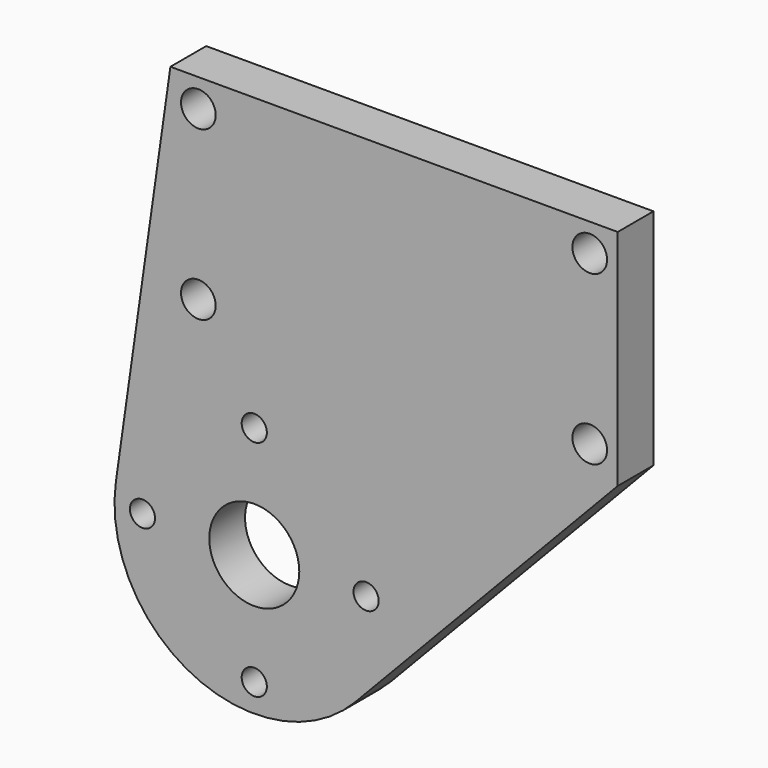
from build123d import *

# Parameters (mm, degrees)
F0_R     = 2.25
F0_R_2   = 8.05
F0_R_3   = 3.1
F1_DEPTH = 8


with BuildPart() as f1:
    # F0 (on Front) → F1 (new body)
    with BuildSketch(Plane.XZ):
        with BuildLine():
            Line((65, 72), (-15, 72))
            Line((-15, 72), (-24.750349, 3.524233))
            ThreePointArc((-24.750349, 3.524233), (-10.901742, -22.497822), (18.103448, -17.241379))
            Line((18.103448, -17.241379), (65, 32))
            Line((65, 32), (65, 72))
        make_face()
        with Locations((0, -20)):
            Circle(F0_R, mode=Mode.SUBTRACT)
        with Locations((-20, 0)):
            Circle(F0_R, mode=Mode.SUBTRACT)
        Circle(F0_R_2, mode=Mode.SUBTRACT)
        with Locations((0, 20)):
            Circle(F0_R, mode=Mode.SUBTRACT)
        with Locations((20, 0)):
            Circle(F0_R, mode=Mode.SUBTRACT)
        with Locations((-10, 37)):
            Circle(F0_R_3, mode=Mode.SUBTRACT)
        with Locations((-10, 67)):
            Circle(F0_R_3, mode=Mode.SUBTRACT)
        with Locations((60, 37)):
            Circle(F0_R_3, mode=Mode.SUBTRACT)
        with Locations((60, 67)):
            Circle(F0_R_3, mode=Mode.SUBTRACT)
    extrude(amount=F1_DEPTH)


solid = f1.part
